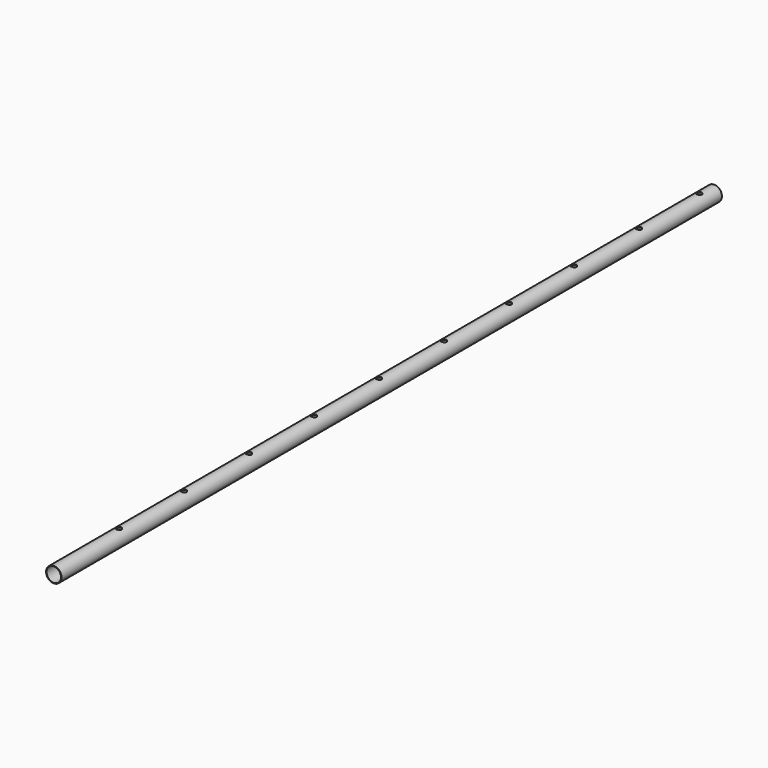
from build123d import *

# Parameters (mm, degrees)
F0_R     = 9.525
F1_DEPTH = 1016
F2_R     = 8.89
F3_DEPTH = 1016
F6_D     = 6.35
F6_DEPTH = 12.7


with BuildPart() as f1:
    # F0 (on Front) → F1 (new body)
    with BuildSketch(Plane.XZ):
        Circle(F0_R)
    extrude(amount=-F1_DEPTH)

    # F2 (on Front) → F3 (cut)
    with BuildSketch(Plane.XZ):
        Circle(F2_R)
    extrude(amount=-F3_DEPTH, mode=Mode.SUBTRACT)

    # F6
    with Locations(Plane.XY.offset(9.525)):
        with Locations((0, 200), (0, 300), (0, 400), (0, 500), (0, 600), (0, 700), (0, 800), (0, 900), (0, 992.894375), (0, 100)):
            Hole(F6_D / 2, depth=F6_DEPTH)


solid = f1.part
